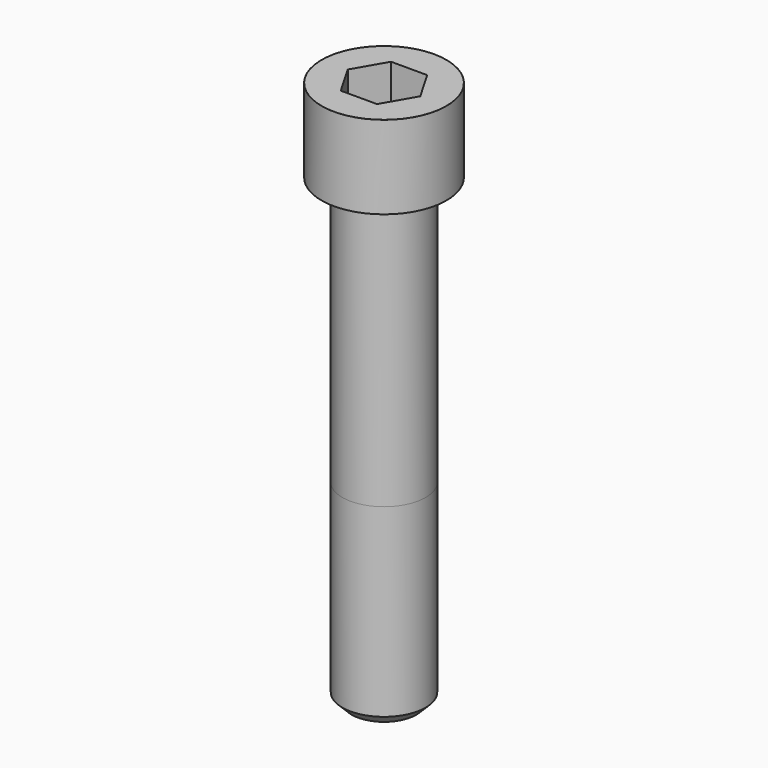
from build123d import *

# Parameters (mm, degrees)
POCKET_DEPTH = 27.15


with BuildPart() as part:
    # Sketch → Revolve (revolve)
    with BuildSketch(Plane.YZ):
        with BuildLine():
            Line((17.999, 0), (27, 0))
            Line((27, 0), (27, 35.97229))
            ThreePointArc((27, 35.97229), (26.991884, 35.991884), (26.97229, 36))
            Line((26.97229, 36), (0, 36))
            Line((0, -200), (0, 36))
            Line((14, -200), (0, -200))
            Line((18, -196), (14, -200))
            Line((18, -116), (18, -196))
            Line((17.999, 0), (18, -116))
        make_face()
    revolve(axis=Axis((0, 0, 0), (0, 0, 1)))

    # Sketch001 → Pocket (cut)
    with BuildSketch(Plane.XY.offset(36)):
        Polygon((15.67506, 0), (7.83753, 13.575), (-7.83753, 13.575), (-15.67506, 0), (-7.83753, -13.575), (7.83753, -13.575), align=None)
    extrude(amount=-POCKET_DEPTH, mode=Mode.SUBTRACT)


solid = part.part
